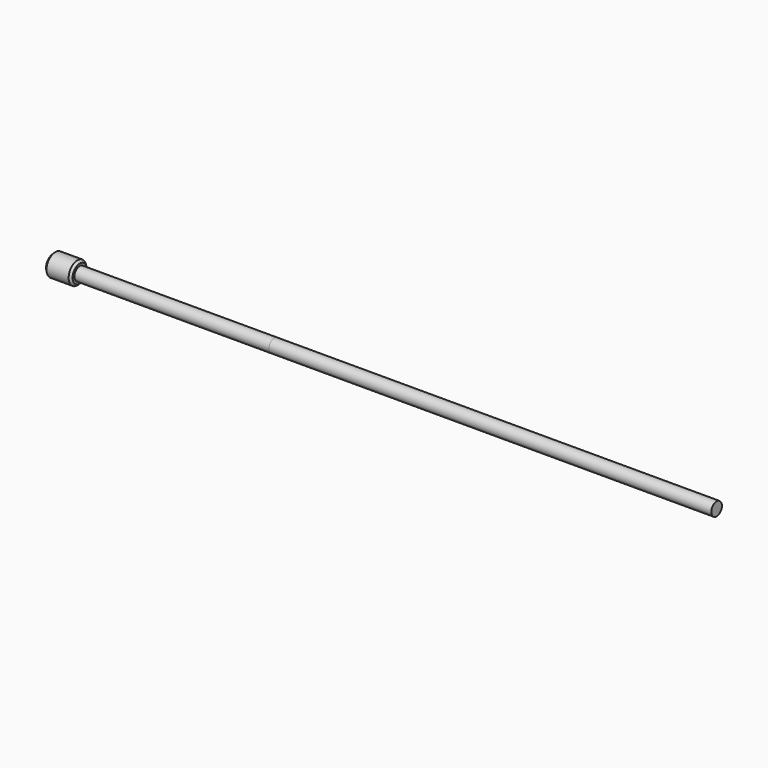
from build123d import *

# Parameters (mm, degrees)
F0_R     = 1.5
F1_DEPTH = 150
F2_DEPTH = 50
F3_R     = 2.5
F3_R_2   = 1.5
F4_DEPTH = 6
F5_SIZE  = 0.5


with BuildPart() as f1:
    # F0 (on Right) → F1 (new body)
    with BuildSketch(Plane.YZ):
        Circle(F0_R)
    extrude(amount=F1_DEPTH)


with BuildPart() as f2:
    # F0 (on Right) → F2 (new body)
    with BuildSketch(Plane.YZ):
        Circle(F0_R)
    extrude(amount=F2_DEPTH)


with BuildPart() as f4:
    # F3 (on Right) → F4 (new body)
    with BuildSketch(Plane.YZ):
        Circle(F3_R)
        Circle(F3_R_2, mode=Mode.SUBTRACT)
    extrude(amount=F4_DEPTH)

    # F5
    f5_edges = [f4.edges().sort_by_distance(p)[0] for p in [
        (6, -2.5, 0),
        (0, -2.5, 0),
    ]]
    chamfer(f5_edges, length=F5_SIZE)


solid = Compound([f1.part, f2.part, f4.part])
